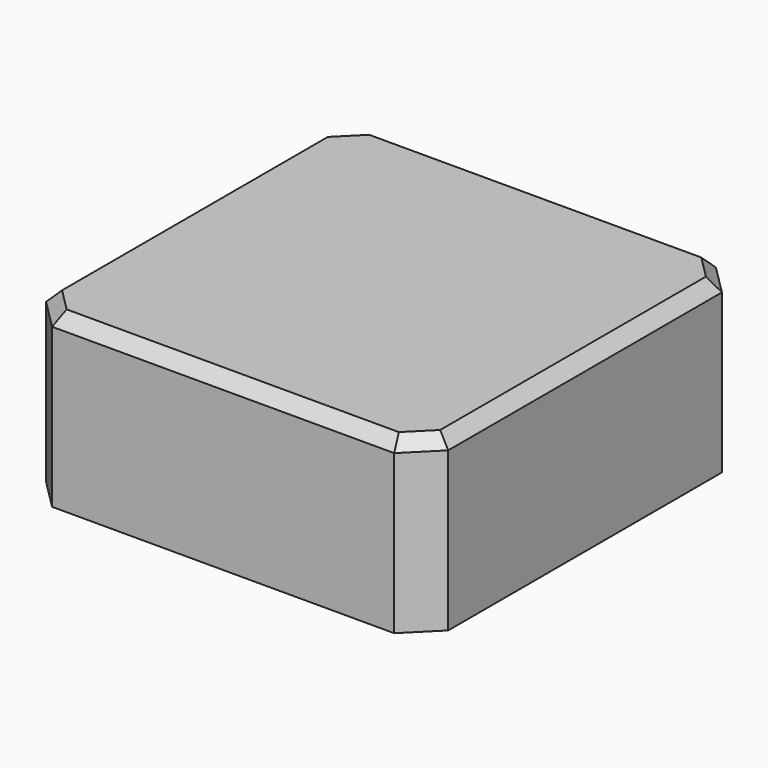
from build123d import *

# Parameters (mm, degrees)
F0_W     = 67
F0_H     = 67
F1_DEPTH = 28.416
F2_SIZE  = 5
F3_SIZE  = 2
F4_T     = -1.75


with BuildPart() as f1:
    # F0 (on Top) → F1 (new body)
    with BuildSketch(Plane.XY):
        with Locations((-9.047817, -2.437839)):
            Rectangle(F0_W, F0_H)
    extrude(amount=F1_DEPTH)

    # F2
    f2_edges = [f1.edges().sort_by_distance(p)[0] for p in [
        (-42.547817, -35.937839, 14.208),
        (24.452183, -35.937839, 14.208),
        (24.452183, 31.062161, 14.208),
        (-42.547817, 31.062161, 14.208),
    ]]
    chamfer(f2_edges, length=F2_SIZE)

    # F3
    f3_edges = [f1.edges().sort_by_distance(p)[0] for p in [
        (-9.047817, 31.062161, 28.416),
        (21.952183, 28.562161, 28.416),
        (-40.047817, 28.562161, 28.416),
        (24.452183, -2.437839, 28.416),
        (-42.547817, -2.437839, 28.416),
        (21.952183, -33.437839, 28.416),
        (-40.047817, -33.437839, 28.416),
        (-9.047817, -35.937839, 28.416),
    ]]
    chamfer(f3_edges, length=F3_SIZE)

    # F4
    f4_openings = [f1.faces().sort_by_distance(p)[0] for p in [
        (-9.047817, -2.437839, 0),
    ]]
    offset(amount=F4_T, openings=f4_openings)


solid = f1.part
